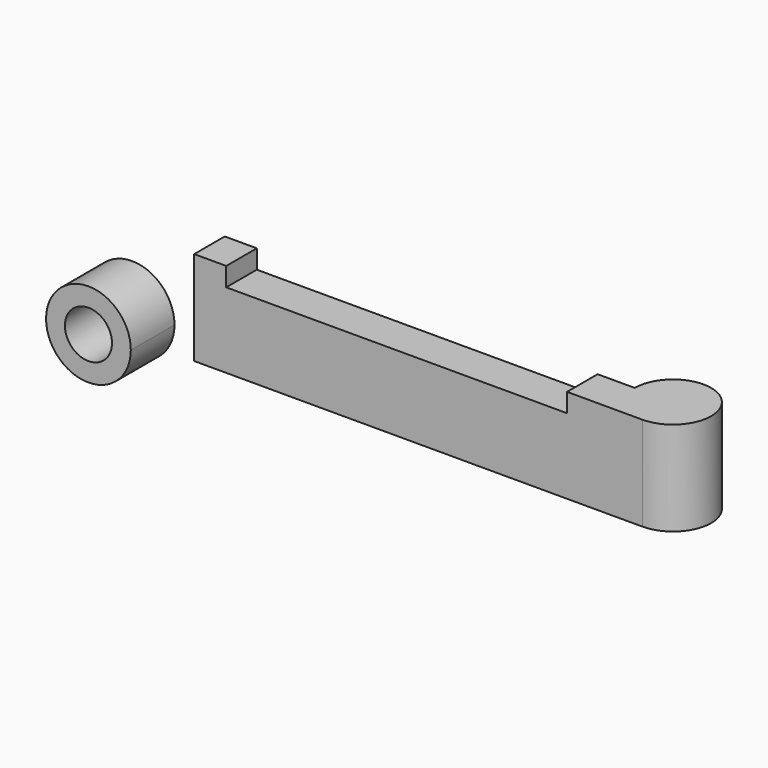
from build123d import *

# Parameters (mm, degrees)
F1_DEPTH  = 5.1562
F0_R      = 3.175
F2_DEPTH  = 7.366
F1_FACE_W = 5.1562
F1_FACE_H = 12.7


with BuildPart() as f1:
    # F0 (on Front) → F1 (new body)
    with BuildSketch(Plane.XZ):
        Polygon((5.842, 12.7), (5.842, 0), (66.294, 0), (66.294, 12.7), (56.134, 12.7), (56.134, 10.16), (10.16, 10.16), (10.16, 12.7), align=None)
    extrude(amount=F1_DEPTH)

    # F1_face (on face) → F3 (revolve)
    with BuildSketch(Plane(origin=(66.294, -2.5781, 6.35), x_dir=(0, 1, 0), z_dir=(1, 0, 0))):
        Rectangle(F1_FACE_W, F1_FACE_H)
    revolve(axis=Axis((66.294, 0, 6.35), (0, 0, -1)))


with BuildPart() as f2:
    # F0 (on Front) → F2 (new body)
    with BuildSketch(Plane.XZ):
        with BuildLine():
            ThreePointArc((-8.182663, -5.506983), (-3.195791, -4.549339), (-0.9398, 0))
            ThreePointArc((-0.9398, 0), (-4.591961, 5.329721), (-10.88063, 3.847543))
            ThreePointArc((-10.88063, 3.847543), (-12.145978, -1.583727), (-8.182663, -5.506983))
        make_face()
        with Locations((-6.6548, 0)):
            Circle(F0_R, mode=Mode.SUBTRACT)
    extrude(amount=F2_DEPTH)


solid = Compound([f1.part, f2.part])
